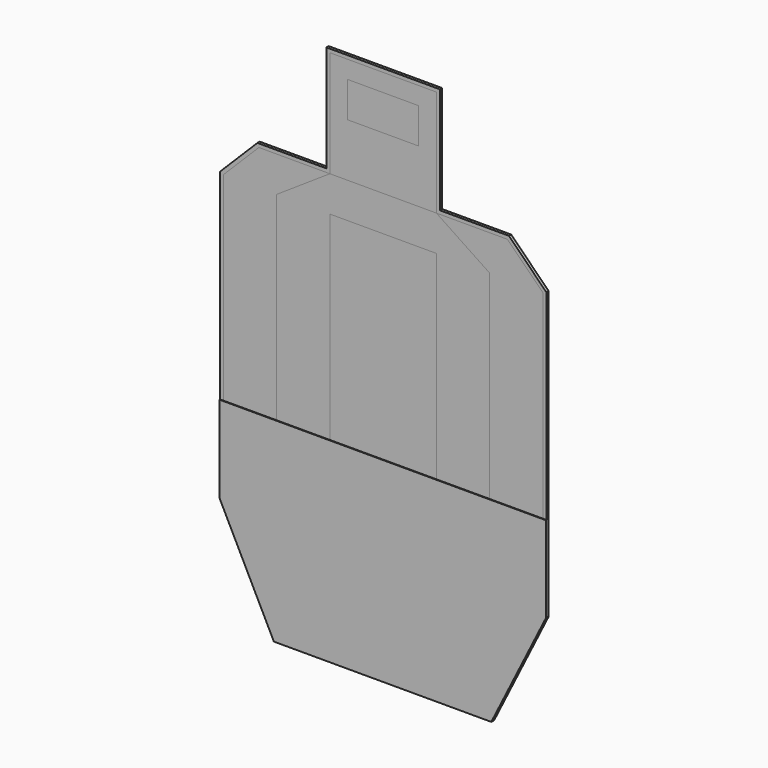
from build123d import *

# Parameters (mm, degrees)
F1_DEPTH  = 3
F2_W      = 150
F2_H      = 150
F3_DEPTH  = 3
F4_W      = 150
F4_H      = 280
F5_DEPTH  = 3
F6_W      = 150
F6_H      = 280
F7_DEPTH  = 3
F9_DEPTH  = 3
F11_DEPTH = 3
F13_DEPTH = 1
F15_DEPTH = 1
F17_DEPTH = 1


with BuildPart() as f1:
    # F0 (on Front) → F1 (new body)
    with BuildSketch(Plane.XZ):
        Polygon((50, 125), (0, 125), (-50, 125), (-50, 100), (-50, 75), (0, 75), (50, 75), (50, 100), align=None)
    extrude(amount=-F1_DEPTH)


with BuildPart() as f3:
    # F2 (on Front) → F3 (new body)
    with BuildSketch(Plane.XZ):
        with Locations((0, 75)):
            Rectangle(F2_W, F2_H)
        Polygon((-50, 125), (0, 125), (50, 125), (50, 100), (50, 75), (0, 75), (-50, 75), (-50, 100), align=None, mode=Mode.SUBTRACT)
    extrude(amount=-F3_DEPTH)


with BuildPart() as f5:
    # F4 (on Front) → F5 (new body)
    with BuildSketch(Plane.XZ):
        with Locations((0, -190)):
            Rectangle(F4_W, F4_H)
    extrude(amount=-F5_DEPTH)


with BuildPart() as f7:
    # F6 (on Front) → F7 (new body)
    with BuildSketch(Plane.XZ):
        Polygon((75, 0), (-75, 0), (-150, -50), (-150, -330), (-100, -450), (100, -450), (150, -330), (150, -50), align=None)
        with Locations((0, -190)):
            Rectangle(F6_W, F6_H, mode=Mode.SUBTRACT)
    extrude(amount=-F7_DEPTH)


with BuildPart() as f9:
    # F8 (on face) → F9 (new body)
    with BuildSketch(Plane.XZ):
        Polygon((175, 0), (75, 0), (150, -50), (150, -330), (100, -450), (-100, -450), (-150, -330), (-150, -50), (-75, 0), (-175, 0), (-225, -50), (-225, -450), (-150, -600), (150, -600), (225, -450), (225, -50), align=None)
    extrude(amount=-F9_DEPTH)


with BuildPart() as f11:
    # F10 (on face) → F11 (new body)
    with BuildSketch(Plane.XZ):
        Polygon((230, -47.928932), (177.071068, 5), (80, 5), (80, 155), (-80, 155), (-80, 5), (-177.071068, 5), (-230, -47.928932), (-230, -451.18034), (-153.09017, -605), (153.09017, -605), (230, -451.18034), align=None)
        Polygon((-75, 150), (75, 150), (75, 0), (175, 0), (225, -50), (225, -450), (150, -600), (-150, -600), (-225, -450), (-225, -50), (-175, 0), (-75, 0), align=None, mode=Mode.SUBTRACT)
    extrude(amount=-F11_DEPTH)


with BuildPart() as f13:
    # F12 (on face) → F13 (new body)
    with BuildSketch(Plane(origin=(0, 3, 0), x_dir=(-1, 0, 0), z_dir=(0, 1, 0))):
        Polygon((75, 0), (75, 150), (-75, 150), (-75, 0), (-175, 0), (-225, -50), (-225, -450), (-150, -600), (150, -600), (225, -450), (225, -50), (175, 0), align=None)
    extrude(amount=F13_DEPTH)


with BuildPart() as f15:
    # F14 (on face) → F15 (new body)
    with BuildSketch(Plane(origin=(0, 4, 0), x_dir=(-1, 0, 0), z_dir=(0, 1, 0))):
        Polygon((80, 155), (-80, 155), (-80, 5), (-177.071068, 5), (-230, -47.928932), (-230, -451.18034), (-153.09017, -605), (153.09017, -605), (230, -451.18034), (230, -47.928932), (177.071068, 5), (80, 5), align=None)
        Polygon((-75, 0), (-75, 150), (75, 150), (75, 0), (175, 0), (225, -50), (225, -450), (150, -600), (-150, -600), (-225, -450), (-225, -50), (-175, 0), align=None, mode=Mode.SUBTRACT)
    extrude(amount=-F15_DEPTH)


with BuildPart() as f17:
    # F16 (on face) → F17 (new body)
    with BuildSketch(Plane.XZ):
        Polygon((-230, -451.18034), (-153.09017, -605), (153.09017, -605), (230, -451.18034), (230, -330), (-230, -330), align=None)
    extrude(amount=F17_DEPTH)


solid = Compound([f1.part, f3.part, f5.part, f7.part, f9.part, f11.part, f13.part, f15.part, f17.part])
